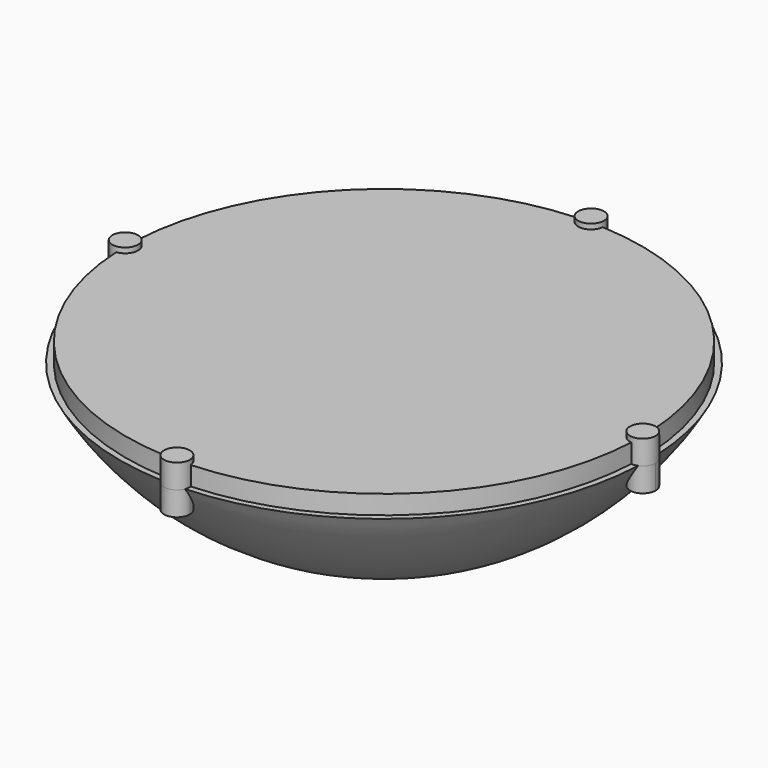
from build123d import *

# Parameters (mm, degrees)
F3_DEPTH = 2.794
F4_R     = 1.898537
F5_DEPTH = 3.556


with BuildPart() as f2:
    # F1 (on Front) → F2 (revolve)
    with BuildSketch(Plane.XZ):
        with BuildLine():
            Line((0, 0), (0, -22.238212))
            ThreePointArc((0, -22.238212), (22.497638, -16.378549), (38.996805, 0))
            Line((38.996805, 0), (0, 0))
        make_face()
    revolve(axis=Axis((0, 0, -11.119106), (0, 0, -1)))

    # F0 (on Top) → F3 (join)
    with BuildSketch(Plane.XY):
        with BuildLine():
            Line((-38.1, 0), (38.1, 0))
            ThreePointArc((38.1, 0), (0, 38.1), (-38.1, 0))
        make_face()
        with BuildLine():
            ThreePointArc((-38.1, 0), (0, -38.1), (38.1, 0))
            Line((38.1, 0), (-38.1, 0))
        make_face()
    extrude(amount=F3_DEPTH)

    # F4 (on Top) → F5 (join, symmetric)
    with BuildSketch(Plane.XY):
        with Locations((-38.242929, 0)):
            Circle(F4_R)
        with Locations((0, -38.242929)):
            Circle(F4_R)
        with Locations((38.242929, 0)):
            Circle(F4_R)
        with Locations((0, 38.242929)):
            Circle(F4_R)
    extrude(amount=F5_DEPTH, both=True)


solid = f2.part
